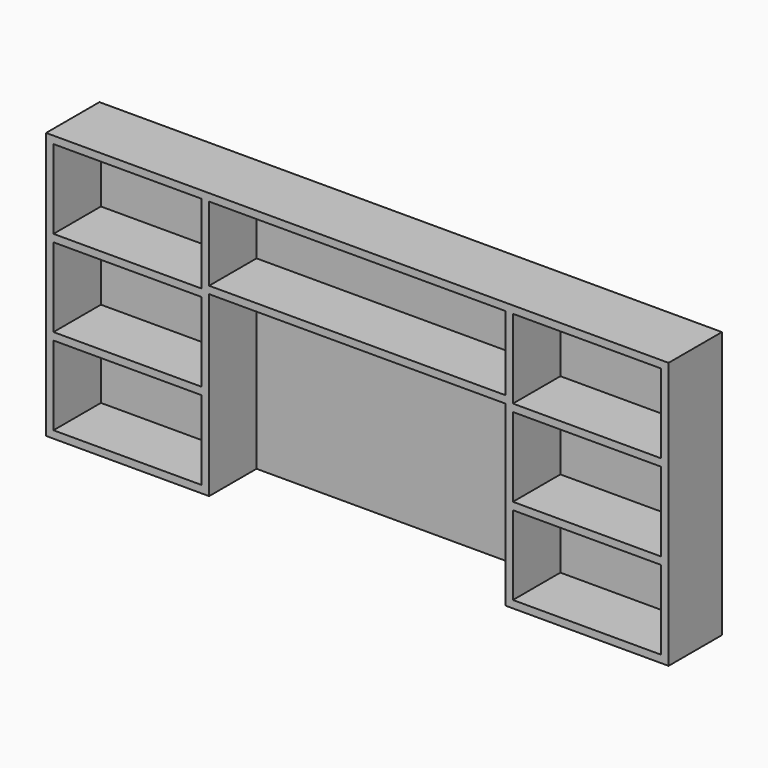
from build123d import *

# Parameters (mm, degrees)
F0_W      = 1600.2
F0_H      = 685.8
F1_DEPTH  = 19.05
F3_DEPTH  = 152.4
F5_DEPTH  = 152.4
F6_W      = 762
F6_H      = 19.05
F7_DEPTH  = 152.4
F8_W      = 381
F8_H      = 19.05
F9_DEPTH  = 152.4
F10_W     = 381
F10_H     = 19.05
F11_DEPTH = 152.4


with BuildPart() as f1:
    # F0 (on Front) → F1 (new body)
    with BuildSketch(Plane.XZ):
        with Locations((800.1, 342.9)):
            Rectangle(F0_W, F0_H)
    extrude(amount=F1_DEPTH)

    # F2 (on face) → F3 (join)
    with BuildSketch(Plane.XZ.offset(19.05)):
        Polygon((0, 685.8), (0, 0), (19.05, 0), (19.05, 666.75), (1581.15, 666.75), (1581.15, 0), (1600.2, 0), (1600.2, 685.8), align=None)
    extrude(amount=F3_DEPTH)

    # F4 (on face) → F5 (join)
    with BuildSketch(Plane.XZ.offset(19.05)):
        Polygon((419.1, 0), (419.1, 666.75), (400.05, 666.75), (400.05, 19.05), (19.05, 19.05), (19.05, 0), align=None)
        Polygon((1200.15, 666.75), (1181.1, 666.75), (1181.1, 0), (1581.15, 0), (1581.15, 19.05), (1200.15, 19.05), align=None)
    extrude(amount=F5_DEPTH)

    # F6 (on face) → F7 (join)
    with BuildSketch(Plane.XZ.offset(19.05)):
        with Locations((800.1, 466.725)):
            Rectangle(F6_W, F6_H)
    extrude(amount=F7_DEPTH)

    # F8 (on face) → F9 (join)
    with BuildSketch(Plane.XZ.offset(19.05)):
        with Locations((209.55, 454.025)):
            Rectangle(F8_W, F8_H)
        with Locations((209.55, 231.775)):
            Rectangle(F8_W, F8_H)
    extrude(amount=F9_DEPTH)

    # F10 (on face) → F11 (join)
    with BuildSketch(Plane.XZ.offset(19.05)):
        with Locations((1390.65, 454.025)):
            Rectangle(F10_W, F10_H)
        with Locations((1390.65, 231.775)):
            Rectangle(F10_W, F10_H)
    extrude(amount=F11_DEPTH)


solid = f1.part
